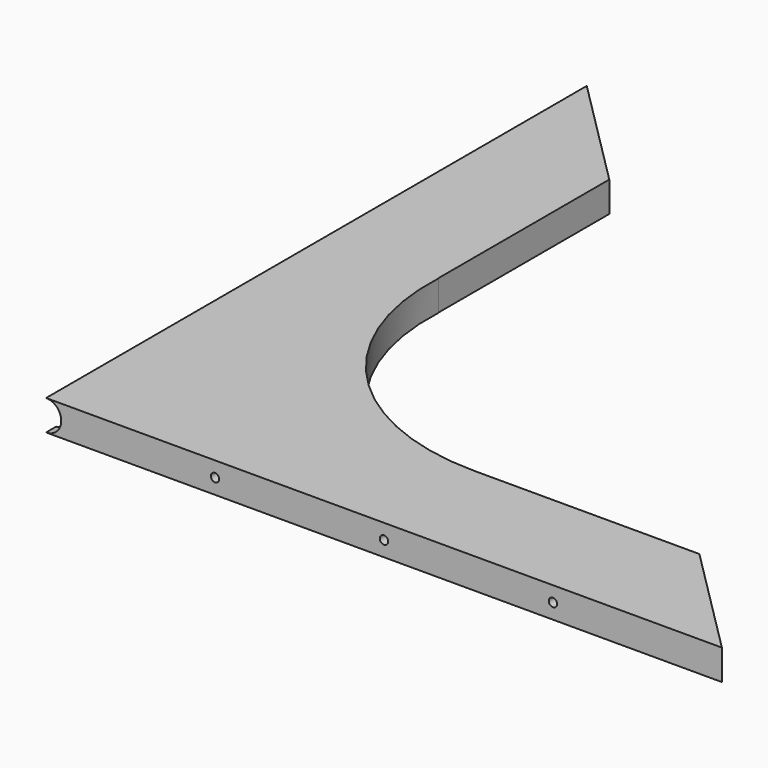
from build123d import *

# Parameters (mm, degrees)
PAD_DEPTH              = 13.4
CYLINDER_W             = 6.7
CYLINDER_H             = 298.45
CYLINDER_ANGLE         = 180
CYLINDER001_R          = 99.483333
CYLINDER001_DEPTH      = 32
BOX_W                  = 149.225
BOX_H                  = 30
BOX_DEPTH              = 21
BOX001_W               = 33
BOX001_H               = 149.225
BOX001_DEPTH           = 22
CYLINDER002_R          = 3.7
CYLINDER002_DEPTH      = 105
LINEARPATTERN_COUNT    = 3
LINEARPATTERN_PITCH    = 74.6125
CYLINDER003_R          = 1.85
CYLINDER003_DEPTH      = 100
LINEARPATTERN001_COUNT = 3
LINEARPATTERN001_PITCH = 74.6125
CYLINDER004_R          = 2.55
CYLINDER004_DEPTH      = 10
LINEARPATTERN002_COUNT = 3
LINEARPATTERN002_PITCH = 141.16875


with BuildPart() as part:
    # Sketch → Pad (new body)
    with BuildSketch(Plane.XY):
        Polygon((0, 0), (298.45, 0), (0, 298.45), align=None)
    extrude(amount=PAD_DEPTH)

    # Cylinder → Cylinder (revolve, cut)
    with BuildSketch(Plane(origin=(0, 0, 6.7), x_dir=(0, 0, 1), z_dir=(-1, 0, 0))):
        with Locations((3.35, 149.225)):
            Rectangle(CYLINDER_W, CYLINDER_H)
    revolve(axis=Axis((0, 0, 6.7), (0, 1, 0)), revolution_arc=CYLINDER_ANGLE, mode=Mode.SUBTRACT)

    # Cylinder001 → Cylinder001 (cut)
    with BuildSketch(Plane(origin=(149.225, 149.225, -8), x_dir=(1, 0, 0), z_dir=(0, 0, 1))):
        Circle(CYLINDER001_R)
    extrude(amount=CYLINDER001_DEPTH, mode=Mode.SUBTRACT)

    # Box → Box (cut)
    with BuildSketch(Plane(origin=(149.225, 79.741667, 17), x_dir=(1, 0, 0), z_dir=(0, 0, -1))):
        with Locations((74.6125, 15)):
            Rectangle(BOX_W, BOX_H)
    extrude(amount=BOX_DEPTH, mode=Mode.SUBTRACT)

    # Box001 → Box001 (cut)
    with BuildSketch(Plane(origin=(49.741667, 303.579167, 17), x_dir=(1, 0, 0), z_dir=(0, 0, -1))):
        with Locations((16.5, 74.6125)):
            Rectangle(BOX001_W, BOX001_H)
    extrude(amount=BOX001_DEPTH, mode=Mode.SUBTRACT)

    # Cylinder002 → Cylinder002 (cut)
    with BuildSketch(Plane(origin=(74.6125, 5, 6.7), x_dir=(-1, 0, 0), z_dir=(0, 1, 0))):
        Circle(CYLINDER002_R)
    cylinder002 = extrude(amount=CYLINDER002_DEPTH, mode=Mode.SUBTRACT)

    # LinearPattern: Cylinder002 ×3
    with Locations(*[(i * LINEARPATTERN_PITCH, 0, 0) for i in range(1, LINEARPATTERN_COUNT)]):
        add(cylinder002, mode=Mode.SUBTRACT)

    # Cylinder003 → Cylinder003 (cut)
    with BuildSketch(Plane(origin=(74.6125, 0, 6.7), x_dir=(-1, 0, 0), z_dir=(0, 1, 0))):
        Circle(CYLINDER003_R)
    cylinder003 = extrude(amount=CYLINDER003_DEPTH, mode=Mode.SUBTRACT)

    # LinearPattern001: Cylinder003 ×3
    with Locations(*[(i * LINEARPATTERN001_PITCH, 0, 0) for i in range(1, LINEARPATTERN001_COUNT)]):
        add(cylinder003, mode=Mode.SUBTRACT)

    # Cylinder004 → Cylinder004 (cut)
    with BuildSketch(Plane(origin=(0, 8.05625, 0), x_dir=(1, 0, 0), z_dir=(0, 0, 1))):
        Circle(CYLINDER004_R)
    cylinder004 = extrude(amount=CYLINDER004_DEPTH, mode=Mode.SUBTRACT)

    # LinearPattern002: Cylinder004 ×3
    with Locations(*[(0, i * LINEARPATTERN002_PITCH, 0) for i in range(1, LINEARPATTERN002_COUNT)]):
        add(cylinder004, mode=Mode.SUBTRACT)


solid = part.part
